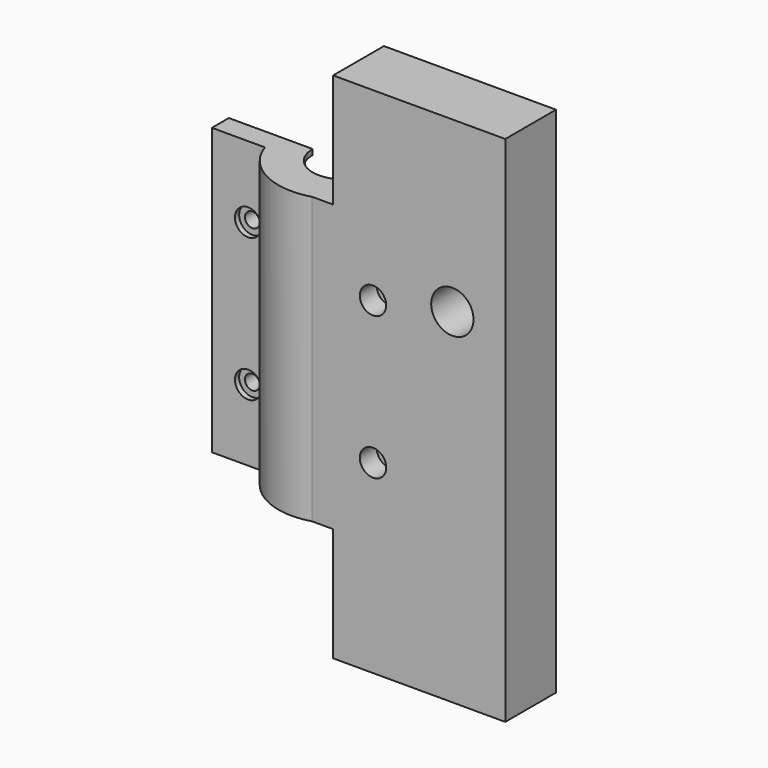
from build123d import *

# Parameters (mm, degrees)
SKETCH012_R  = 4
PAD008_DEPTH = 12
SKETCH001_R  = 1.4
SKETCH001_W  = 29.46
SKETCH001_H  = 21.5
PAD005_DEPTH = 13
PAD006_DEPTH = 24
SKETCH010_R  = 2.5
PAD007_DEPTH = 4
SKETCH011_R  = 2.5
PAD004_DEPTH = 1
PAD001_DEPTH = 1
PAD002_DEPTH = 2
PAD003_DEPTH = 1
PAD_DEPTH    = 97


with BuildPart() as pad008:
    # Sketch012 → Pad008 (new body)
    with BuildSketch(Plane.XZ):
        with Locations((30, 65)):
            Circle(SKETCH012_R)
    extrude(amount=PAD008_DEPTH)


with BuildPart() as pad005:
    # Sketch001 → Pad005 (new body)
    with BuildSketch(Plane(origin=(0, 0, 0), x_dir=(-1, 0, 0), z_dir=(0, 1, 0))):
        with Locations((15, 62)):
            Circle(SKETCH001_R)
        with Locations((15, 35)):
            Circle(SKETCH001_R)
        with Locations((-15, 62)):
            Circle(SKETCH001_R)
        with Locations((-15, 35)):
            Circle(SKETCH001_R)
        with Locations((7.27, 10.75)):
            Rectangle(SKETCH001_W, SKETCH001_H)
        with Locations((7.27, 86.25)):
            Rectangle(SKETCH001_W, SKETCH001_H)
    extrude(amount=-PAD005_DEPTH)


with BuildPart() as pad006:
    # Sketch008 → Pad006 (new body)
    with BuildSketch(Plane.YZ.offset(33.5)):
        with BuildLine():
            ThreePointArc((-1, 7.5), (-8.915757, 6), (-1, 4.5))
            Line((0, 4.5), (-1, 4.5))
            Line((0, 7.5), (0, 4.5))
            Line((-1, 7.5), (0, 7.5))
        make_face()
        with BuildLine():
            ThreePointArc((-1, 92.5), (-8.915757, 91), (-1, 89.5))
            Line((0, 89.5), (-1, 89.5))
            Line((0, 92.5), (0, 89.5))
            Line((-1, 92.5), (0, 92.5))
        make_face()
    extrude(amount=-PAD006_DEPTH)


with BuildPart() as pad007:
    # Sketch010 → Pad007 (new body)
    with BuildSketch(Plane.XZ.offset(12)):
        with Locations((15, 62)):
            Circle(SKETCH010_R)
        with Locations((15, 35)):
            Circle(SKETCH010_R)
    extrude(amount=-PAD007_DEPTH)


with BuildPart() as cutblock:
    # Sketch011 → Pad004 (new body)
    with BuildSketch(Plane.XZ.offset(4)):
        with Locations((-15, 62)):
            Circle(SKETCH011_R)
        with Locations((-15, 35)):
            Circle(SKETCH011_R)
    extrude(amount=-PAD004_DEPTH)

    # Fusion001: union Pad005, Pad006, Pad007
    add(pad005.part)
    add(pad006.part)
    add(pad007.part)


with BuildPart() as pad001:
    # Sketch005 → Pad001 (new body)
    with BuildSketch(Plane(origin=(0, 0, 21.5), x_dir=(-1, 0, 0), z_dir=(0, 0, 1))):
        with BuildLine():
            ThreePointArc((7.46, 0), (0, 7.46), (-7.46, 0))
            Line((-7.46, 0), (-6, 0))
            ThreePointArc((6, 0), (0, 6), (-6, 0))
            Line((7.46, 0), (6, 0))
        make_face()
    extrude(amount=PAD001_DEPTH)


with BuildPart() as pad002:
    # Sketch006 → Pad002 (new body)
    with BuildSketch(Plane(origin=(0, 0, 47.5), x_dir=(-1, 0, 0), z_dir=(0, 0, 1))):
        with BuildLine():
            ThreePointArc((7.46, 0), (0, 7.46), (-7.46, 0))
            Line((-7.46, 0), (-6, 0))
            ThreePointArc((6, 0), (0, 6), (-6, 0))
            Line((7.46, 0), (6, 0))
        make_face()
    extrude(amount=PAD002_DEPTH)


with BuildPart() as pad003:
    # Sketch007 → Pad003 (new body)
    with BuildSketch(Plane(origin=(0, 0, 74.5), x_dir=(-1, 0, 0), z_dir=(0, 0, 1))):
        with BuildLine():
            ThreePointArc((7.46, 0), (0, 7.46), (-7.46, 0))
            Line((-7.46, 0), (-6, 0))
            ThreePointArc((6, 0), (0, 6), (-6, 0))
            Line((7.46, 0), (6, 0))
        make_face()
    extrude(amount=PAD003_DEPTH)


with BuildPart() as cut001:
    # Sketch → Pad (new body)
    with BuildSketch(Plane.XY):
        with BuildLine():
            ThreePointArc((-7.46, 0), (0, -7.46), (7.46, 0))
            Line((7.46, 0), (40, 0))
            Line((40, -12), (40, 0))
            Line((3.5, -12), (40, -12))
            ThreePointArc((-11.842719, -4), (-5.779294, -11.083761), (3.5, -12))
            Line((-21.842719, -4), (-11.842719, -4))
            Line((-21.842719, 0), (-21.842719, -4))
            Line((-7.46, 0), (-21.842719, 0))
        make_face()
    extrude(amount=PAD_DEPTH)

    # Fusion: union Pad001, Pad002, Pad003
    add(pad001.part)
    add(pad002.part)
    add(pad003.part)

    # Cut: cut CutBlock
    add(cutblock.part, mode=Mode.SUBTRACT)

    # Cut001: cut Pad008
    add(pad008.part, mode=Mode.SUBTRACT)


solid = cut001.part
